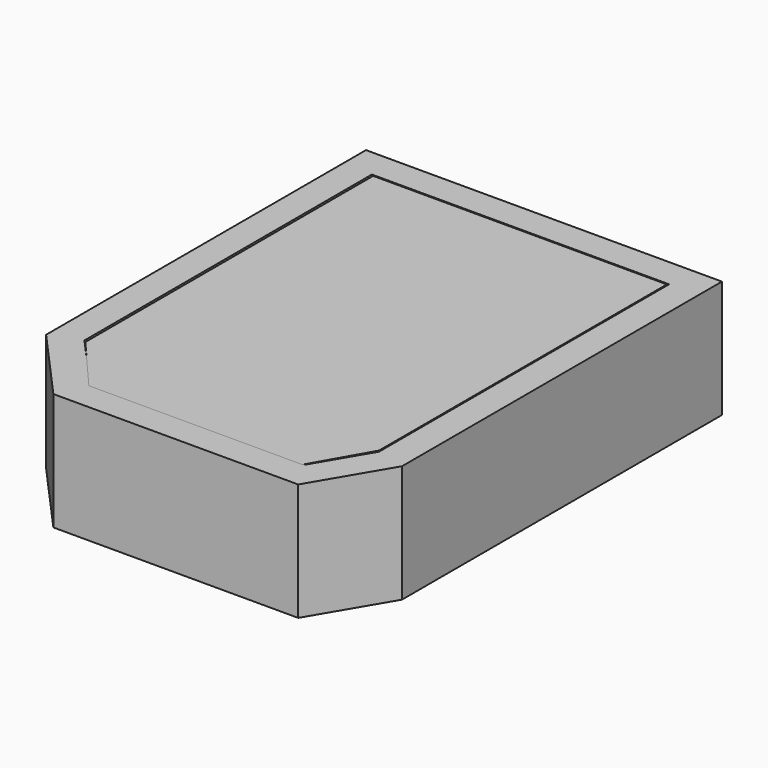
from build123d import *

# Parameters (mm, degrees)
F1_DEPTH = 25.4
F2_W     = 63.505156
F2_H     = 0.274914
F3_DEPTH = 25.4


with BuildPart() as f1:
    # F0 (on Top) → F1 (new body)
    with BuildSketch(Plane.XY):
        Polygon((76.964237, 0), (0, 0), (0, -86.465143), (14.505068, -102.625065), (67.442708, -102.625065), (76.964237, -86.465143), align=None)
        Polygon((17.338182, -96.275065), (6.35, -84.033263), (6.35, -6.35), (70.614237, -6.35), (70.614237, -84.733525), (63.813888, -96.275065), align=None, mode=Mode.SUBTRACT)
    extrude(amount=F1_DEPTH)


with BuildPart() as f3:
    # F2 (on Top) → F3 (new body)
    with BuildSketch(Plane.XY):
        with Locations((38.595178, -6.752051)):
            Rectangle(F2_W, F2_H)
        Polygon((70.347756, -6.889508), (6.8426, -6.889508), (6.8426, -84.415279), (17.289333, -96.511498), (63.474901, -96.511498), (70.347756, -84.415279), align=None)
    extrude(amount=F3_DEPTH)


solid = Compound([f1.part, f3.part])
